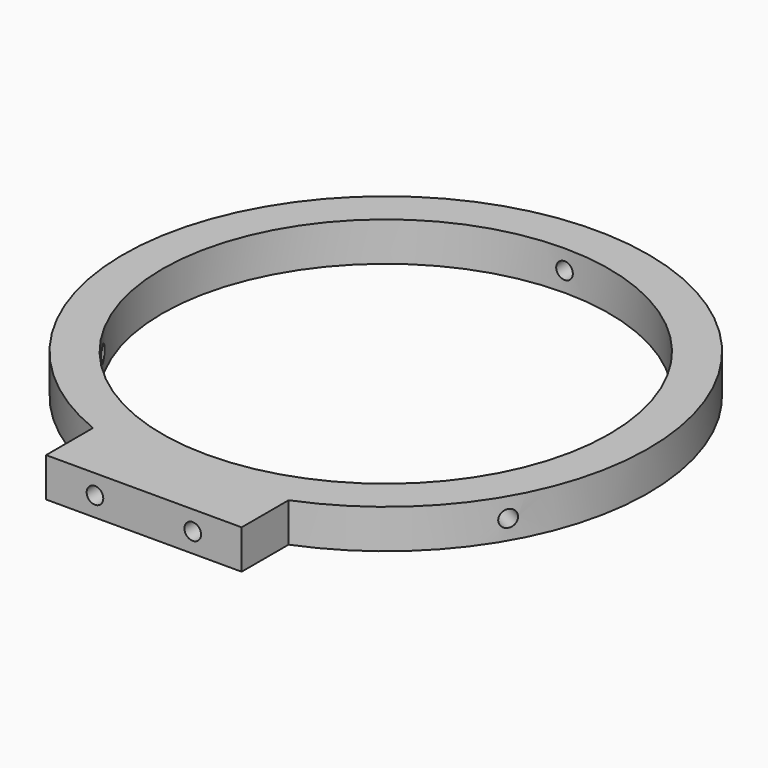
from build123d import *

# Parameters (mm, degrees)
SKETCH006_R           = 114.3
PAD003_DEPTH          = 20
SKETCH007_R           = 4.25
HOLE001_DEPTH         = 75
HOLE001_TIPS_R        = 4.25
SKETCH008_R           = 4.25
HOLE002_DEPTH         = 200
POLARPATTERN001_COUNT = 3
POLARPATTERN001_ANGLE = 240


with BuildPart() as part:
    # Sketch006 → Pad003 (new body)
    with BuildSketch(Plane.XY):
        with BuildLine():
            ThreePointArc((50, -124.645457), (0, 134.3), (-50, -124.645457))
            Line((-50, -124.645457), (-50, -154.645457))
            Line((-50, -154.645457), (50, -154.645457))
            Line((50, -154.645457), (50, -124.645457))
        make_face()
        Circle(SKETCH006_R, mode=Mode.SUBTRACT)
    extrude(amount=PAD003_DEPTH)

    # Sketch007 (on Face3 of Pad003) → Hole001 (cut)
    with BuildSketch(Plane.XZ.offset(154.645457)):
        with Locations((-25, 10)):
            Circle(SKETCH007_R)
        with Locations((25, 10)):
            Circle(SKETCH007_R)
    extrude(amount=-HOLE001_DEPTH, mode=Mode.SUBTRACT)

    # Hole001 tips → Hole001 tip 1 section 0
    with BuildSketch(Plane.XZ.offset(79.645457), mode=Mode.PRIVATE) as hole001_tip_1_s0:
        with Locations((-25, 10)):
            Circle(HOLE001_TIPS_R)
    loft([hole001_tip_1_s0.sketch, Vertex(-25, -77.0918, 10)], mode=Mode.SUBTRACT)

    # Hole001 tips → Hole001 tip 2 section 0
    with BuildSketch(Plane.XZ.offset(79.645457), mode=Mode.PRIVATE) as hole001_tip_2_s0:
        with Locations((25, 10)):
            Circle(HOLE001_TIPS_R)
    loft([hole001_tip_2_s0.sketch, Vertex(25, -77.0918, 10)], mode=Mode.SUBTRACT)

    # Sketch008 → Hole002 (cut)
    with BuildSketch(Plane.XZ):
        with Locations((0, 10)):
            Circle(SKETCH008_R)
    hole002 = extrude(amount=-HOLE002_DEPTH, mode=Mode.SUBTRACT)

    # PolarPattern001: Hole002 ×3 about axis
    polarpattern001_axis = Axis((0, 0, 0), (0, 0, 1))
    for i in range(1, POLARPATTERN001_COUNT):
        add(hole002.rotate(polarpattern001_axis, i * POLARPATTERN001_ANGLE / (POLARPATTERN001_COUNT - 1)), mode=Mode.SUBTRACT)


solid = part.part
